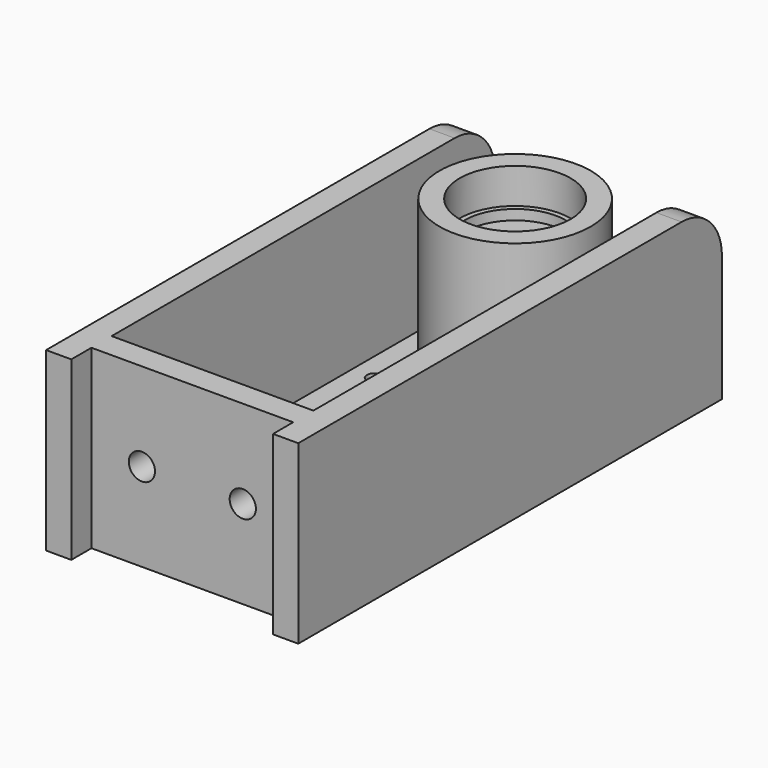
from build123d import *

# Parameters (mm, degrees)
SKETCH_W        = 50
SKETCH_H        = 100
SKETCH_R        = 11
PAD_DEPTH       = 5
PAD001_DEPTH    = 5
PAD002_DEPTH    = 5
SKETCH003_W     = 40
SKETCH003_H     = 5
PAD003_DEPTH    = 30
SKETCH004_R     = 1.5
POCKET_DEPTH    = 5
SKETCH005_R     = 15
PAD004_DEPTH    = 30
SKETCH006_R     = 11
POCKET001_DEPTH = 7
SKETCH007_R     = 10
POCKET002_DEPTH = 2
SKETCH008_R     = 4.25
POCKET003_DEPTH = 26.001
SKETCH009_R     = 11
POCKET004_DEPTH = 2
SKETCH010_R     = 10.5
POCKET005_DEPTH = 2
SKETCH011_R     = 2.6
POCKET006_DEPTH = 5
FILLET_R        = 10


with BuildPart() as part:
    # Sketch → Pad (new body)
    with BuildSketch(Plane.XY):
        Rectangle(SKETCH_W, SKETCH_H)
        with Locations((0, 30)):
            Circle(SKETCH_R, mode=Mode.SUBTRACT)
    extrude(amount=PAD_DEPTH)

    # Sketch001 (on Face1 of Pad) → Pad001 (join)
    with BuildSketch(Plane(origin=(-25, 0, 0), x_dir=(0, -1, 0), z_dir=(-1, 0, 0))):
        Polygon((-50, 5), (-50, 35), (55, 35), (55, 0), (50, 0), (50, 5), align=None)
    extrude(amount=-PAD001_DEPTH)

    # Sketch002 (on Face4 of Pad001) → Pad002 (join)
    with BuildSketch(Plane.YZ.offset(25)):
        Polygon((-50, 0), (-55, 0), (-55, 35), (50, 35), (50, 5), (-50, 5), align=None)
    extrude(amount=-PAD002_DEPTH)

    # Sketch003 (on Face7 of Pad002) → Pad003 (join)
    with BuildSketch(Plane.XY.offset(5)):
        with Locations((0, -47.5)):
            Rectangle(SKETCH003_W, SKETCH003_H)
    extrude(amount=PAD003_DEPTH)

    # Sketch004 (on Face9 of Pad003) → Pocket (cut)
    with BuildSketch(Plane.XY.offset(5)):
        with Locations((-15.5, 45.5)):
            Circle(SKETCH004_R)
        with Locations((-15.5, 14.5)):
            Circle(SKETCH004_R)
        with Locations((15.5, 14.5)):
            Circle(SKETCH004_R)
        with Locations((15.5, 45.5)):
            Circle(SKETCH004_R)
    extrude(amount=-POCKET_DEPTH, mode=Mode.SUBTRACT)

    # Sketch005 (on Face6 of Pocket) → Pad004 (join)
    with BuildSketch(Plane.XY.offset(5)):
        with Locations((0, 30)):
            Circle(SKETCH005_R)
    extrude(amount=PAD004_DEPTH)

    # Sketch006 (on Face22 of Pad004) → Pocket001 (cut)
    with BuildSketch(Plane.XY.offset(35)):
        with Locations((0, 30)):
            Circle(SKETCH006_R)
    extrude(amount=-POCKET001_DEPTH, mode=Mode.SUBTRACT)

    # Sketch007 (on Face24 of Pocket001) → Pocket002 (cut)
    with BuildSketch(Plane.XY.offset(28)):
        with Locations((0, 30)):
            Circle(SKETCH007_R)
    extrude(amount=-POCKET002_DEPTH, mode=Mode.SUBTRACT)

    # Sketch008 (on Face26 of Pocket002) → Pocket003 (cut, through all)
    with BuildSketch(Plane.XY.offset(26)):
        with Locations((0, 30)):
            Circle(SKETCH008_R)
    extrude(amount=-POCKET003_DEPTH, mode=Mode.SUBTRACT)

    # Sketch009 (on Face21 of Pocket003) → Pocket004 (cut)
    with BuildSketch(Plane(origin=(0, 0, 5), x_dir=(1, 0, 0), z_dir=(0, 0, -1))):
        with Locations((0, -30)):
            Circle(SKETCH009_R)
    extrude(amount=-POCKET004_DEPTH, mode=Mode.SUBTRACT)

    # Sketch010 (on Face24 of Pocket004) → Pocket005 (cut)
    with BuildSketch(Plane(origin=(0, 0, 7), x_dir=(1, 0, 0), z_dir=(0, 0, -1))):
        with Locations((0, -30)):
            Circle(SKETCH010_R)
    extrude(amount=-POCKET005_DEPTH, mode=Mode.SUBTRACT)

    # Sketch011 (on Face12 of Pocket005) → Pocket006 (cut)
    with BuildSketch(Plane.XZ.offset(50)):
        with Locations((-10, 17.5)):
            Circle(SKETCH011_R)
        with Locations((10, 17.5)):
            Circle(SKETCH011_R)
    extrude(amount=-POCKET006_DEPTH, mode=Mode.SUBTRACT)

    # Fillet
    fillet_edges = [part.edges().sort_by_distance(p)[0] for p in [
        (22.5, 50, 35),
        (-22.5, 50, 35),
    ]]
    fillet(fillet_edges, radius=FILLET_R)


solid = part.part
